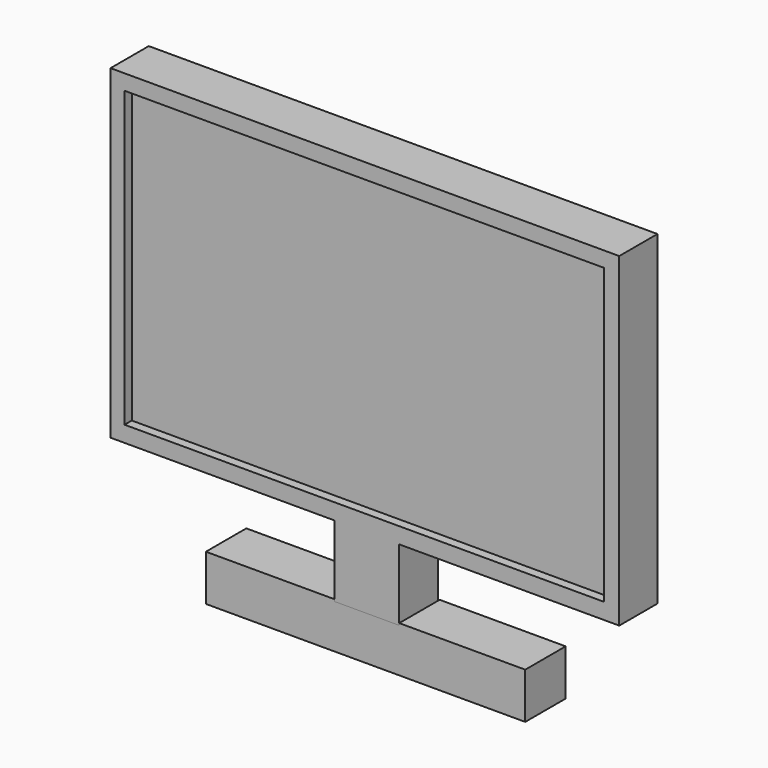
from build123d import *

# Parameters (mm, degrees)
F0_W      = 140.6627446413
F0_H      = 89.9651609361
F1_DEPTH  = 13.208
F2_W      = 132.5511261821
F2_H      = 81.3004858792
F3_DEPTH  = 5
F4_W      = 132.5511261821
F4_H      = 81.3004858792
F5_DEPTH  = 2.5
F6_W      = 17.8824178874
F6_H      = 19.7259671986
F7_DEPTH  = 13.462
F10_DEPTH = 13.97


with BuildPart() as f1:
    # F0 (on Front) → F1 (new body)
    with BuildSketch(Plane.XZ):
        with Locations((-1.4748349786, 8.9412089437)):
            Rectangle(F0_W, F0_H)
    extrude(amount=F1_DEPTH)

    # F2 (on face) → F3 (cut, symmetric)
    with BuildSketch(Plane.XZ.offset(13.208)):
        with Locations((-1.6591958702, 9.0333875269)):
            Rectangle(F2_W, F2_H)
    extrude(amount=F3_DEPTH, both=True, mode=Mode.SUBTRACT)

    # F4 (on face) → F5 (join)
    with BuildSketch(Plane.XZ.offset(8.208)):
        with Locations((-1.6591958702, 9.0333875269)):
            Rectangle(F4_W, F4_H)
    extrude(amount=F5_DEPTH)

    # F6 (on face) → F7 (join)
    with BuildSketch(Plane.XZ.offset(13.208)):
        with Locations((-0.9217746556, -45.9043551236)):
            Rectangle(F6_W, F6_H)
    extrude(amount=-F7_DEPTH)


with BuildPart() as f10:
    # F9 (on face) → F10 (new body)
    with BuildSketch(Plane.XZ.offset(13.208)):
        Polygon((-9.8629835993, -55.7673387229), (-9.8629835993, -55.2142746747), (-45.4434677958, -55.2142746747), (-45.4434677958, -67.9347589612), (42.8625009954, -67.9347589612), (42.8625009954, -55.2142746747), (8.0194342881, -55.2142746747), (8.0194342881, -55.7673387229), align=None)
    extrude(amount=-F10_DEPTH)


solid = Compound([f1.part, f10.part])
